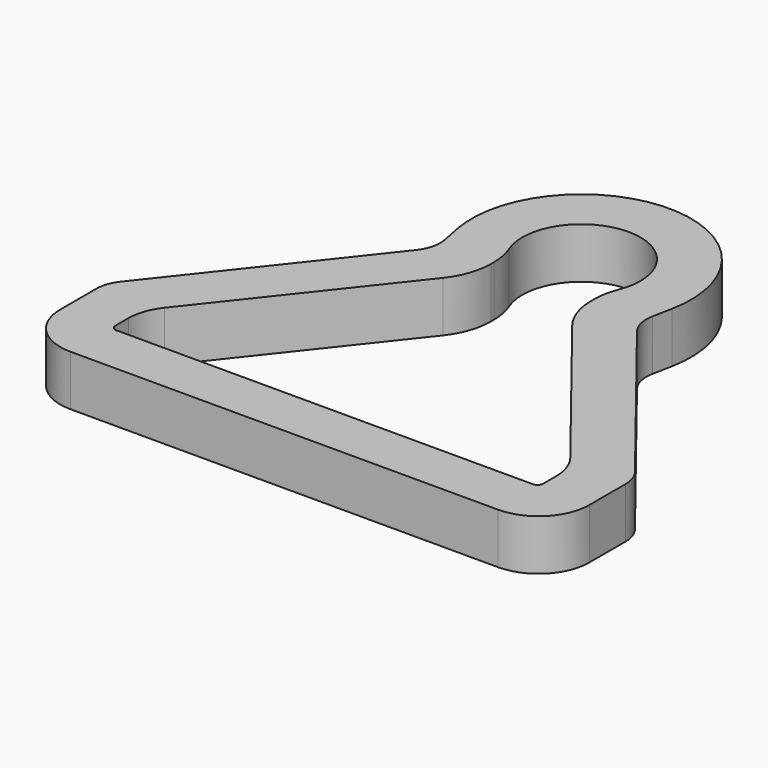
from build123d import *

# Parameters (mm, degrees)
F1_DEPTH = 4.5
F2_R     = 4.5
F3_R     = 3
F4_R     = 0.5
F5_R     = 6


with BuildPart() as f1:
    # F0 (on Top) → F1 (new body)
    with BuildSketch(Plane.XY):
        with BuildLine():
            ThreePointArc((9.564743, -1.89161), (0, 9.75), (-9.564743, -1.89161))
            Line((-9.564743, -1.89161), (-8.95, -5))
            Line((-8.95, -5), (-23.5, -23.438322))
            Line((-23.5, -23.438322), (-23.5, -33))
            Line((-23.5, -33), (23.5, -33))
            Line((23.5, -33), (23.5, -23.438322))
            Line((23.5, -23.438322), (8.95, -5))
            Line((8.95, -5), (9.564743, -1.89161))
        make_face()
        with BuildLine():
            ThreePointArc((-4.45, -2.785678), (0, 5.25), (4.45, -2.785678))
            Line((4.45, -2.785678), (4.45, -6.561678))
            Line((4.45, -6.561678), (19, -25))
            Line((19, -25), (19, -28.5))
            Line((19, -28.5), (-19, -28.5))
            Line((-19, -28.5), (-19, -25))
            Line((-19, -25), (-4.45, -6.561678))
            Line((-4.45, -6.561678), (-4.45, -2.785678))
        make_face(mode=Mode.SUBTRACT)
    extrude(amount=F1_DEPTH)

    # F2
    f2_edges = [f1.edges().sort_by_distance(p)[0] for p in [
        (-19, -25, 2.25),
        (19, -25, 2.25),
        (-23.5, -33, 2.25),
        (23.5, -33, 2.25),
    ]]
    fillet(f2_edges, radius=F2_R)

    # F3
    f3_edges = [f1.edges().sort_by_distance(p)[0] for p in [
        (-8.95, -5, 2.25),
        (8.95, -5, 2.25),
        (23.5, -23.438322, 2.25),
        (-23.5, -23.438322, 2.25),
    ]]
    fillet(f3_edges, radius=F3_R)

    # F4
    f4_edges = [f1.edges().sort_by_distance(p)[0] for p in [
        (-19, -28.5, 2.25),
        (19, -28.5, 2.25),
    ]]
    fillet(f4_edges, radius=F4_R)

    # F5
    f5_edges = [f1.edges().sort_by_distance(p)[0] for p in [
        (4.45, -6.561678, 2.25),
        (-4.45, -6.561678, 2.25),
        (4.45, -2.785678, 2.25),
        (-4.45, -2.785678, 2.25),
    ]]
    fillet(f5_edges, radius=F5_R)


solid = f1.part
